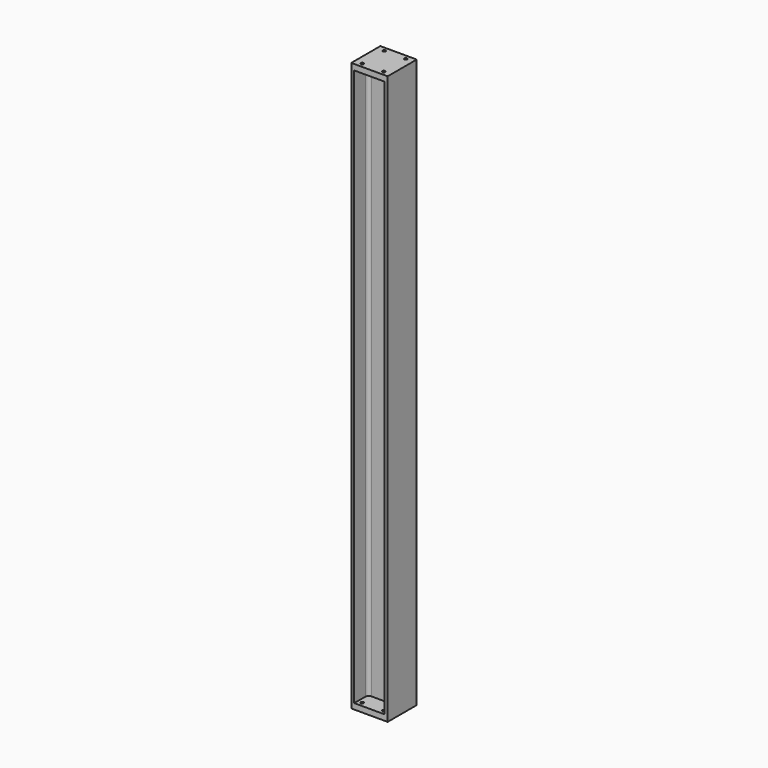
from build123d import *

# Parameters (mm, degrees)
F2_DEPTH = 1250
F1_R     = 6.5
F3_DEPTH = 25


with BuildPart() as f2:
    # F1 (on Top) → F2 (new body)
    with BuildSketch(Plane.XY):
        with BuildLine():
            Line((-80, 80), (-80, -80))
            Line((-80, -80), (-67, -80))
            Line((-67, -80), (-67, -19))
            ThreePointArc((-67, -19), (-62.6066017178, -8.3933982822), (-52, -4))
            Line((-52, -4), (52, -4))
            ThreePointArc((52, -4), (62.6066017178, -8.3933982822), (67, -19))
            Line((67, -19), (67, -80))
            Line((67, -80), (80, -80))
            Line((80, -80), (80, 80))
            Line((80, 80), (67, 80))
            Line((67, 80), (67, 19))
            ThreePointArc((67, 19), (62.6066017178, 8.3933982822), (52, 4))
            Line((52, 4), (-52, 4))
            ThreePointArc((-52, 4), (-62.6066017178, 8.3933982822), (-67, 19))
            Line((-67, 19), (-67, 80))
            Line((-67, 80), (-80, 80))
        make_face()
    extrude(amount=-F2_DEPTH)

    # F1 (on Top) → F3 (join)
    with BuildSketch(Plane.XY):
        with BuildLine():
            Line((67, 80), (-67, 80))
            Line((-67, 80), (-67, 19))
            ThreePointArc((-67, 19), (-62.6066017178, 8.3933982822), (-52, 4))
            Line((-52, 4), (52, 4))
            ThreePointArc((52, 4), (62.6066017178, 8.3933982822), (67, 19))
            Line((67, 19), (67, 80))
        make_face()
        with Locations((-47.5, 60.5)):
            Circle(F1_R, mode=Mode.SUBTRACT)
        with Locations((47.5, 60.5)):
            Circle(F1_R, mode=Mode.SUBTRACT)
        with BuildLine():
            Line((-80, 80), (-80, -80))
            Line((-80, -80), (-67, -80))
            Line((-67, -80), (-67, -19))
            ThreePointArc((-67, -19), (-62.6066017178, -8.3933982822), (-52, -4))
            Line((-52, -4), (52, -4))
            ThreePointArc((52, -4), (62.6066017178, -8.3933982822), (67, -19))
            Line((67, -19), (67, -80))
            Line((67, -80), (80, -80))
            Line((80, -80), (80, 80))
            Line((80, 80), (67, 80))
            Line((67, 80), (67, 19))
            ThreePointArc((67, 19), (62.6066017178, 8.3933982822), (52, 4))
            Line((52, 4), (-52, 4))
            ThreePointArc((-52, 4), (-62.6066017178, 8.3933982822), (-67, 19))
            Line((-67, 19), (-67, 80))
            Line((-67, 80), (-80, 80))
        make_face()
        with BuildLine():
            Line((-67, -19), (-67, -80))
            Line((-67, -80), (67, -80))
            Line((67, -80), (67, -19))
            ThreePointArc((67, -19), (62.6066017178, -8.3933982822), (52, -4))
            Line((52, -4), (-52, -4))
            ThreePointArc((-52, -4), (-62.6066017178, -8.3933982822), (-67, -19))
        make_face()
        with Locations((-47.5, -60.5)):
            Circle(F1_R, mode=Mode.SUBTRACT)
        with Locations((47.5, -60.5)):
            Circle(F1_R, mode=Mode.SUBTRACT)
    extrude(amount=-F3_DEPTH)

    # F4: F2 across face


with BuildPart() as f2_1:
    add(f2.part)
    add(f2.part.mirror(Plane(origin=(0, 0, -1250), x_dir=(1, 0, 0), z_dir=(0, 0, -1))))


solid = f2_1.part
